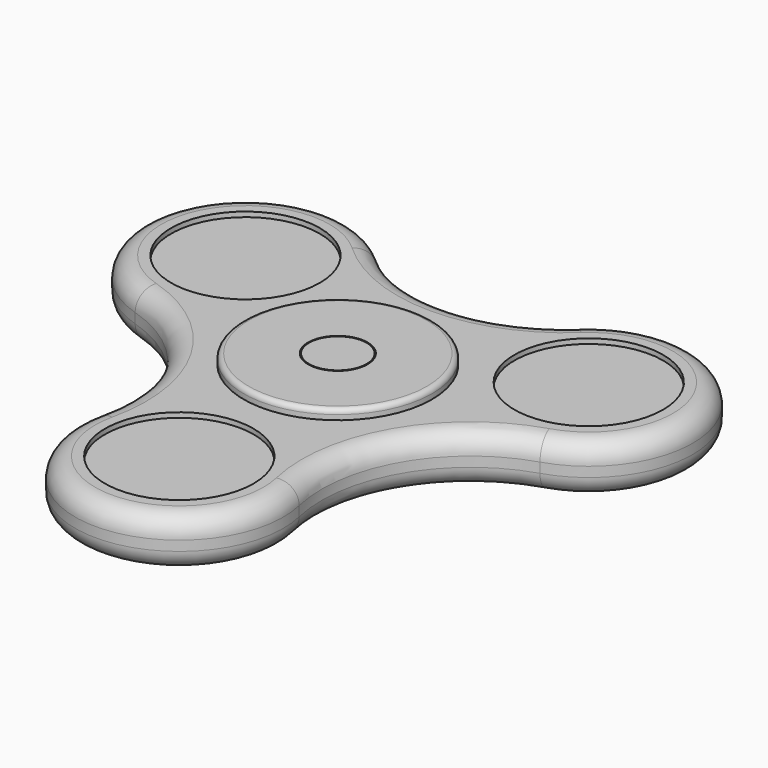
from build123d import *

# Parameters (mm, degrees)
F0_R     = 7.5
F1_DEPTH = 2.5
F2_DEPTH = 2
F3_R     = 7
F3_R_2   = 3
F4_DEPTH = 5.1
F3_R_3   = 9.5
F3_R_4   = 7.5
F5_DEPTH = 1
F6_R     = 2.9
F7_DEPTH = 6
F6_R_2   = 9.5
F8_DEPTH = 1
F9_R     = 2
F10_R    = 0.5
F10_2_R  = 0.5


with BuildPart() as f1:
    # F0 (on Top) → F1 (new body, symmetric)
    with BuildSketch(Plane.XY):
        with BuildLine():
            ThreePointArc((-20.4282540378, -0.0295520855), (-11.8775100698, -6.8574836361), (-10.2397198756, -17.676610909))
            ThreePointArc((-10.2397198756, -17.676610909), (0, -30.5), (10.2397198756, -17.676610909))
            ThreePointArc((10.2397198756, -17.676610909), (11.8775100698, -6.8574836361), (20.4282540378, -0.0295520855))
            ThreePointArc((20.4282540378, -0.0295520855), (26.4137748154, 15.25), (10.1885341622, 17.7061629944))
            ThreePointArc((10.1885341622, 17.7061629944), (0, 13.7149672722), (-10.1885341622, 17.7061629944))
            ThreePointArc((-10.1885341622, 17.7061629944), (-26.4137748154, 15.25), (-20.4282540378, -0.0295520855))
        make_face()
        with Locations((0, -20)):
            Circle(F0_R, mode=Mode.SUBTRACT)
        Circle(F0_R, mode=Mode.SUBTRACT)
        with Locations((-17.3205080757, 10)):
            Circle(F0_R, mode=Mode.SUBTRACT)
        with Locations((17.3205080757, 10)):
            Circle(F0_R, mode=Mode.SUBTRACT)
    extrude(amount=F1_DEPTH, both=True)

    # F0 (on Top) → F2 (join, symmetric)
    with BuildSketch(Plane.XY):
        with Locations((-17.3205080757, 10)):
            Circle(F0_R)
        with Locations((0, -20)):
            Circle(F0_R)
        with Locations((17.3205080757, 10)):
            Circle(F0_R)
    extrude(amount=F2_DEPTH, both=True)

    # F9
    f9_edges = [f1.edges().sort_by_distance(p)[0] for p in [
        (0, -30.5, 2.5),
        (0, -30.5, -2.5),
    ]]
    fillet(f9_edges, radius=F9_R)


with BuildPart() as f4:
    # F3 (on face) → F4 (new body)
    with BuildSketch(Plane.XY.offset(2.5)):
        Circle(F3_R)
        Circle(F3_R_2, mode=Mode.SUBTRACT)
    extrude(amount=-F4_DEPTH)

    # F3 (on face) → F5 (join)
    with BuildSketch(Plane.XY.offset(2.5)):
        Circle(F3_R_3)
        Circle(F3_R_4, mode=Mode.SUBTRACT)
        Circle(F3_R_4)
        Circle(F3_R, mode=Mode.SUBTRACT)
        Circle(F3_R)
        Circle(F3_R_2, mode=Mode.SUBTRACT)
    extrude(amount=F5_DEPTH)

    # F10#2
    f10_2_edges = [f4.edges().sort_by_distance(p)[0] for p in [
        (-9.5, 0, 3.5),
    ]]
    fillet(f10_2_edges, radius=F10_2_R)


with BuildPart() as f7:
    # F6 (on face) → F7 (new body, through all)
    with BuildSketch(Plane(origin=(0, 0, -2.5), x_dir=(1, 0, 0), z_dir=(0, 0, -1))):
        Circle(F6_R)
    extrude(amount=-F7_DEPTH)

    # F6 (on face) → F8 (join)
    with BuildSketch(Plane(origin=(0, 0, -2.5), x_dir=(1, 0, 0), z_dir=(0, 0, -1))):
        Circle(F6_R_2)
        Circle(F6_R, mode=Mode.SUBTRACT)
        Circle(F6_R)
    extrude(amount=F8_DEPTH)

    # F10
    f10_edges = [f7.edges().sort_by_distance(p)[0] for p in [
        (-9.5, 0, -3.5),
    ]]
    fillet(f10_edges, radius=F10_R)


solid = Compound([f1.part, f4.part, f7.part])
